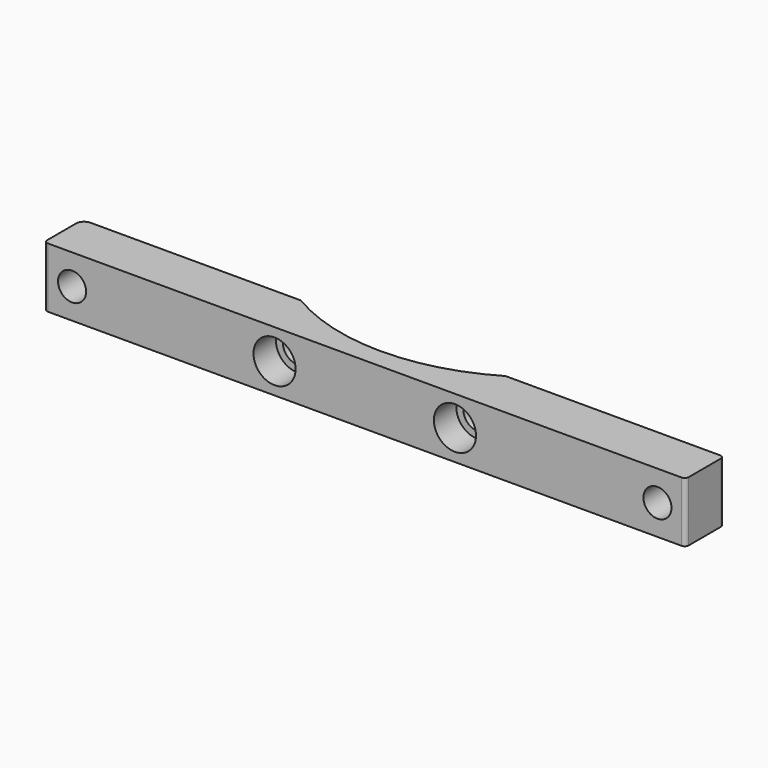
from build123d import *

# Parameters (mm, degrees)
SKETCH005_R      = 5.25
EXTRUDE005_DEPTH = 7
SKETCH004_R      = 3.5
EXTRUDE004_DEPTH = 50
EXTRUDE003_DEPTH = 15
FILLET_1_R       = 2
FILLET_2_R       = 1


with BuildPart() as extrude005:
    # Sketch005 (on Face10 of Cut002) → Extrude005 (new body)
    with BuildSketch(Plane.XZ.offset(-14.220068)):
        with Locations((-22.5, 7.5)):
            Circle(SKETCH005_R)
        with Locations((22.5, 7.5)):
            Circle(SKETCH005_R)
    extrude(amount=-EXTRUDE005_DEPTH)


with BuildPart() as extrude004:
    # Sketch004 (on Face5 of Extrude003) → Extrude004 (new body)
    with BuildSketch(Plane.XZ.offset(-14.220068)):
        with Locations((-73, 7.5)):
            Circle(SKETCH004_R)
        with Locations((73, 7.5)):
            Circle(SKETCH004_R)
        with Locations((-22.5, 7.5)):
            Circle(SKETCH004_R)
        with Locations((22.5, 7.5)):
            Circle(SKETCH004_R)
    extrude(amount=-EXTRUDE004_DEPTH)


with BuildPart() as fillet_body:
    # Sketch003 → Extrude003 (new body)
    with BuildSketch(Plane.XY):
        with BuildLine():
            Line((-80, 26.220068), (-25.514702, 26.220068))
            ThreePointArc((-25.514702, 26.220068), (0, 19.220068), (25.514702, 26.220068))
            Line((25.514702, 26.220068), (80, 26.220068))
            Line((80, 26.220068), (80, 14.220068))
            Line((80, 14.220068), (-80, 14.220068))
            Line((-80, 14.220068), (-80, 26.220068))
        make_face()
    extrude(amount=EXTRUDE003_DEPTH)

    # Cut002: cut Extrude004
    add(extrude004.part, mode=Mode.SUBTRACT)

    # Cut003: cut Extrude005
    add(extrude005.part, mode=Mode.SUBTRACT)

    # Fillet 1
    fillet_1_edges = [fillet_body.edges().sort_by_distance(p)[0] for p in [
        (-80, 26.220068, 7.5),
    ]]
    fillet(fillet_1_edges, radius=FILLET_1_R)

    # Fillet 2
    fillet_2_edges = [fillet_body.edges().sort_by_distance(p)[0] for p in [
        (-80, 14.220068, 7.5),
        (80, 26.220068, 7.5),
        (80, 14.220068, 7.5),
    ]]
    fillet(fillet_2_edges, radius=FILLET_2_R)


solid = fillet_body.part
